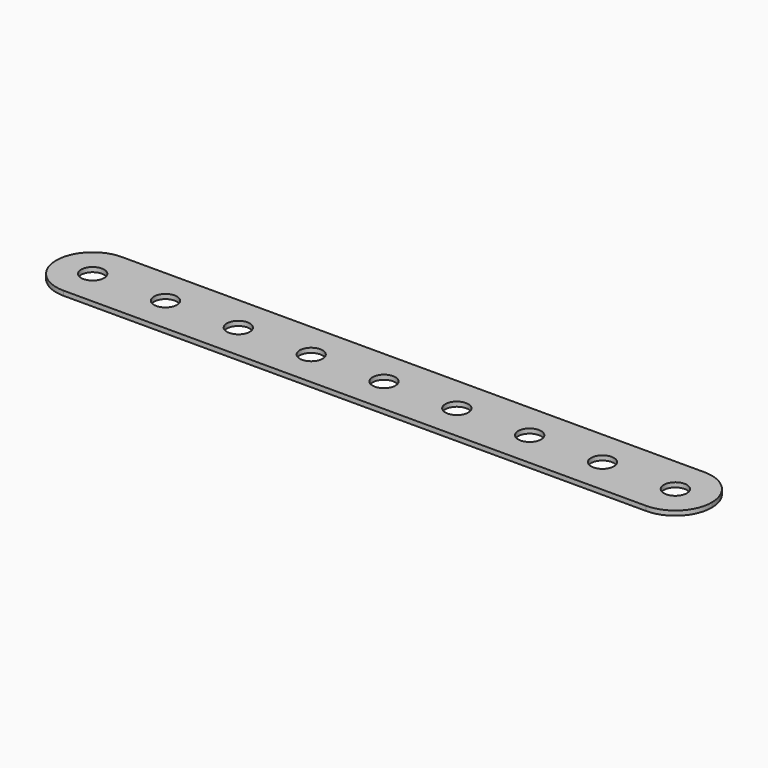
from build123d import *

# Parameters (mm, degrees)
F0_R     = 2
F1_DEPTH = 0.8


with BuildPart() as f1:
    # F0 (on Top) → F1 (new body)
    with BuildSketch(Plane.XY):
        with BuildLine():
            Line((0, -6.35), (101.6, -6.35))
            ThreePointArc((101.6, -6.35), (106.090128, -4.490128), (107.95, 0))
            ThreePointArc((107.95, 0), (106.090128, 4.490128), (101.6, 6.35))
            Line((101.6, 6.35), (0, 6.35))
            ThreePointArc((0, 6.35), (-4.490128, 4.490128), (-6.35, 0))
            ThreePointArc((-6.35, 0), (-4.490128, -4.490128), (0, -6.35))
        make_face()
        Circle(F0_R, mode=Mode.SUBTRACT)
        with Locations((12.7, 0)):
            Circle(F0_R, mode=Mode.SUBTRACT)
        with Locations((25.4, 0)):
            Circle(F0_R, mode=Mode.SUBTRACT)
        with Locations((38.1, 0)):
            Circle(F0_R, mode=Mode.SUBTRACT)
        with Locations((50.8, 0)):
            Circle(F0_R, mode=Mode.SUBTRACT)
        with Locations((63.5, 0)):
            Circle(F0_R, mode=Mode.SUBTRACT)
        with Locations((76.2, 0)):
            Circle(F0_R, mode=Mode.SUBTRACT)
        with Locations((88.9, 0)):
            Circle(F0_R, mode=Mode.SUBTRACT)
        with Locations((101.6, 0)):
            Circle(F0_R, mode=Mode.SUBTRACT)
    extrude(amount=F1_DEPTH)


solid = f1.part
